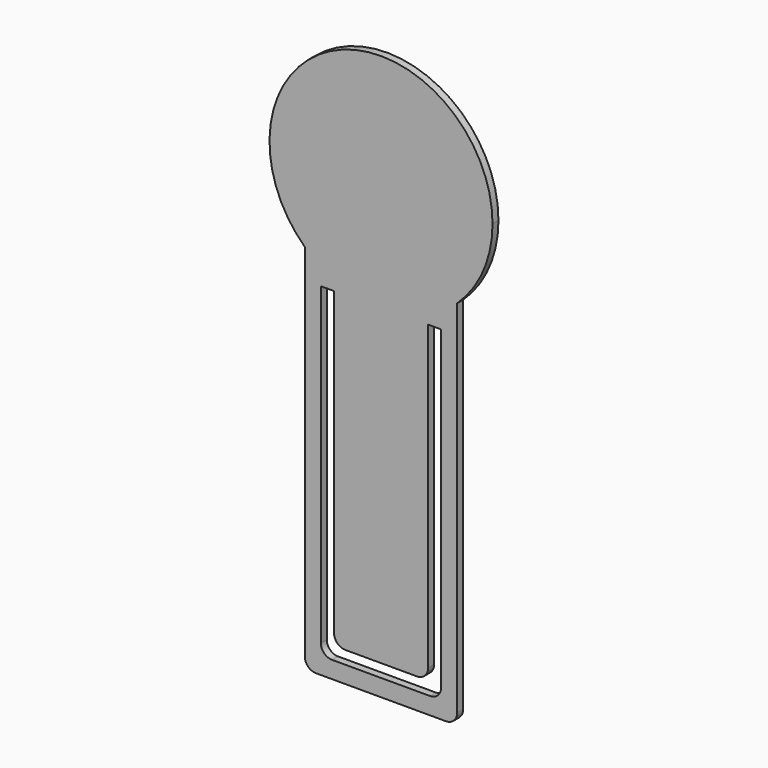
from build123d import *

# Parameters (mm, degrees)
F1_DEPTH = 1
F2_R     = 1.5
F3_R     = 1.5
F4_R     = 1.5
F5_R     = 1.5


with BuildPart() as f1:
    # F0 (on Front) → F1 (new body)
    with BuildSketch(Plane.XZ):
        with BuildLine():
            ThreePointArc((-12.582927, 26.823092), (-9.070294, 31.806561), (-7.831176, 37.776329))
            ThreePointArc((-7.831176, 37.776329), (-28.798743, 51.538165), (-33.082927, 26.826371))
            Line((-33.082927, 26.826371), (-12.582927, 26.826371))
            Line((-12.582927, 26.826371), (-12.582927, 26.823092))
        make_face()
        with BuildLine():
            Line((-12.582927, 26.826371), (-33.082927, 26.826371))
            ThreePointArc((-33.082927, 26.826371), (-22.833574, 22.776329), (-12.582927, 26.823092))
            Line((-12.582927, 26.823092), (-12.582927, 26.826371))
        make_face()
        with BuildLine():
            ThreePointArc((-12.582927, 26.823092), (-22.833574, 22.776329), (-33.082927, 26.826371))
            Line((-33.082927, 26.826371), (-33.082927, -23.173629))
            Line((-33.082927, -23.173629), (-12.582927, -23.173629))
            Line((-12.582927, -23.173629), (-12.582927, 26.823092))
        make_face()
        Polygon((-30.924927, -19.130884), (-30.924927, 22.876894), (-29.146819, 22.876894), (-29.146819, -19.130884), (-16.490985, -19.130884), (-16.490985, 23.022754), (-14.740985, 23.022754), (-14.740985, -19.130884), (-14.740985, -20.88121), (-16.490985, -20.88121), (-29.146819, -20.88121), (-30.924927, -20.88121), align=None, mode=Mode.SUBTRACT)
    extrude(amount=F1_DEPTH)

    # F2
    f2_edges = [f1.edges().sort_by_distance(p)[0] for p in [
        (-33.082927, -0.5, -23.173629),
        (-29.146819, -0.5, -19.130884),
    ]]
    fillet(f2_edges, radius=F2_R)

    # F3
    f3_edges = [f1.edges().sort_by_distance(p)[0] for p in [
        (-12.582927, -0.5, -23.173629),
        (-16.490985, -0.5, -19.130884),
    ]]
    fillet(f3_edges, radius=F3_R)

    # F4
    f4_edges = [f1.edges().sort_by_distance(p)[0] for p in [
        (-14.740985, -0.5, -20.88121),
    ]]
    fillet(f4_edges, radius=F4_R)

    # F5
    f5_edges = [f1.edges().sort_by_distance(p)[0] for p in [
        (-30.924927, -0.5, -20.88121),
    ]]
    fillet(f5_edges, radius=F5_R)


solid = f1.part
